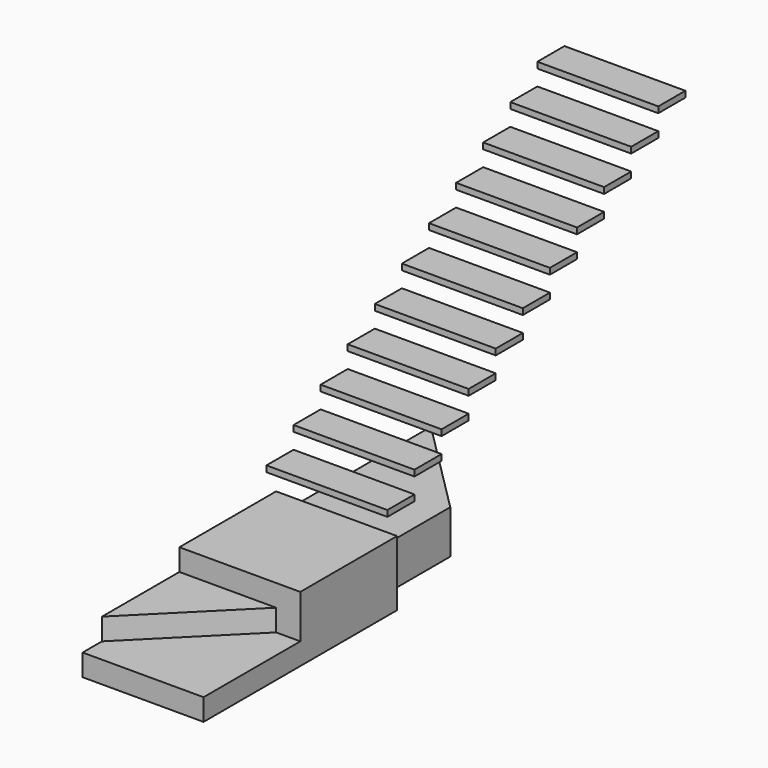
from build123d import *

# Parameters (mm, degrees)
F1_START  = -20
F1_DEPTH  = 80
F2_W      = 28
F2_H      = 5
F3_DEPTH  = 100
F4_W      = 120
F4_H      = 18
F5_DEPTH  = 100
F6_W      = 100
F6_H      = 54
F7_DEPTH  = 100
F9_DEPTH  = 18
F11_DEPTH = 86


with BuildPart() as f1:
    # F0 (on Right) → F1 (new body)
    with BuildSketch(Plane.YZ.offset(F1_START)):
        Polygon((-170, 36), (-170, 0), (0, 0), (170, 0), (170, 36), (0, 36), align=None)
    extrude(amount=-F1_DEPTH)

    # F4 (on Right) → F5 (join)
    with BuildSketch(Plane.YZ):
        with Locations((-130, 9)):
            Rectangle(F4_W, F4_H)
    extrude(amount=-F5_DEPTH)

    # F6 (on Right) → F7 (join)
    with BuildSketch(Plane.YZ):
        with Locations((-40, 27)):
            Rectangle(F6_W, F6_H)
    extrude(amount=-F7_DEPTH)

    # F8 (on face) → F9 (cut)
    with BuildSketch(Plane.XY.offset(36)):
        Polygon((-20, -90), (-100, -170), (-20, -170), align=None)
    extrude(amount=-F9_DEPTH, mode=Mode.SUBTRACT)

    # F10 (on face) → F11 (cut)
    with BuildSketch(Plane.XY.offset(36)):
        Polygon((-20, 170), (-100, 170), (-20, 90), align=None)
    extrude(amount=-F11_DEPTH, mode=Mode.SUBTRACT)


with BuildPart() as f3:
    # F2 (on Right) → F3 (new body)
    with BuildSketch(Plane.YZ):
        with Locations((14, 74.5)):
            Rectangle(F2_W, F2_H)
    extrude(amount=-F3_DEPTH)


with BuildPart() as f3b:
    # F2 (on Right) → F3, piece 2 (new body)
    with BuildSketch(Plane.YZ):
        with Locations((42, 92.5)):
            Rectangle(F2_W, F2_H)
    extrude(amount=-F3_DEPTH)


with BuildPart() as f3c:
    # F2 (on Right) → F3, piece 3 (new body)
    with BuildSketch(Plane.YZ):
        with Locations((70, 110.5)):
            Rectangle(F2_W, F2_H)
    extrude(amount=-F3_DEPTH)


with BuildPart() as f3d:
    # F2 (on Right) → F3, piece 4 (new body)
    with BuildSketch(Plane.YZ):
        with Locations((98, 128.5)):
            Rectangle(F2_W, F2_H)
    extrude(amount=-F3_DEPTH)


with BuildPart() as f3e:
    # F2 (on Right) → F3, piece 5 (new body)
    with BuildSketch(Plane.YZ):
        with Locations((126, 146.5)):
            Rectangle(F2_W, F2_H)
    extrude(amount=-F3_DEPTH)


with BuildPart() as f3f:
    # F2 (on Right) → F3, piece 6 (new body)
    with BuildSketch(Plane.YZ):
        with Locations((154, 164.5)):
            Rectangle(F2_W, F2_H)
    extrude(amount=-F3_DEPTH)


with BuildPart() as f3g:
    # F2 (on Right) → F3, piece 7 (new body)
    with BuildSketch(Plane.YZ):
        with Locations((182, 182.5)):
            Rectangle(F2_W, F2_H)
    extrude(amount=-F3_DEPTH)


with BuildPart() as f3h:
    # F2 (on Right) → F3, piece 8 (new body)
    with BuildSketch(Plane.YZ):
        with Locations((210, 200.5)):
            Rectangle(F2_W, F2_H)
    extrude(amount=-F3_DEPTH)


with BuildPart() as f3i:
    # F2 (on Right) → F3, piece 9 (new body)
    with BuildSketch(Plane.YZ):
        with Locations((238, 218.5)):
            Rectangle(F2_W, F2_H)
    extrude(amount=-F3_DEPTH)


with BuildPart() as f3j:
    # F2 (on Right) → F3, piece 10 (new body)
    with BuildSketch(Plane.YZ):
        with Locations((266, 236.5)):
            Rectangle(F2_W, F2_H)
    extrude(amount=-F3_DEPTH)


with BuildPart() as f3k:
    # F2 (on Right) → F3, piece 11 (new body)
    with BuildSketch(Plane.YZ):
        with Locations((294, 254.5)):
            Rectangle(F2_W, F2_H)
    extrude(amount=-F3_DEPTH)


solid = Compound([f1.part, f3.part, f3b.part, f3c.part, f3d.part, f3e.part, f3f.part, f3g.part, f3h.part, f3i.part, f3j.part, f3k.part])
